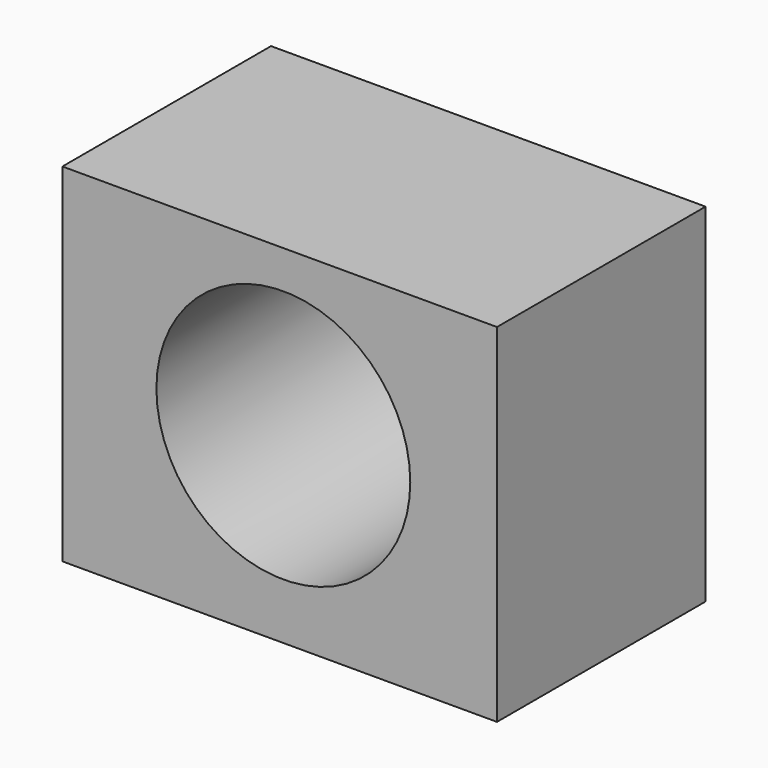
from build123d import *

# Parameters (mm, degrees)
F0_W     = 127
F0_H     = 101.6
F1_DEPTH = 38.1
F2_R     = 37.094784
F3_DEPTH = 76.201


with BuildPart() as f1:
    # F0 (on Front) → F1 (new body, symmetric)
    with BuildSketch(Plane.XZ):
        with Locations((-1.06249, -2.622532)):
            Rectangle(F0_W, F0_H)
    extrude(amount=F1_DEPTH, both=True)

    # F2 (on face) → F3 (cut, through all)
    with BuildSketch(Plane.XZ.offset(38.1)):
        Circle(F2_R)
    extrude(amount=-F3_DEPTH, mode=Mode.SUBTRACT)


solid = f1.part
